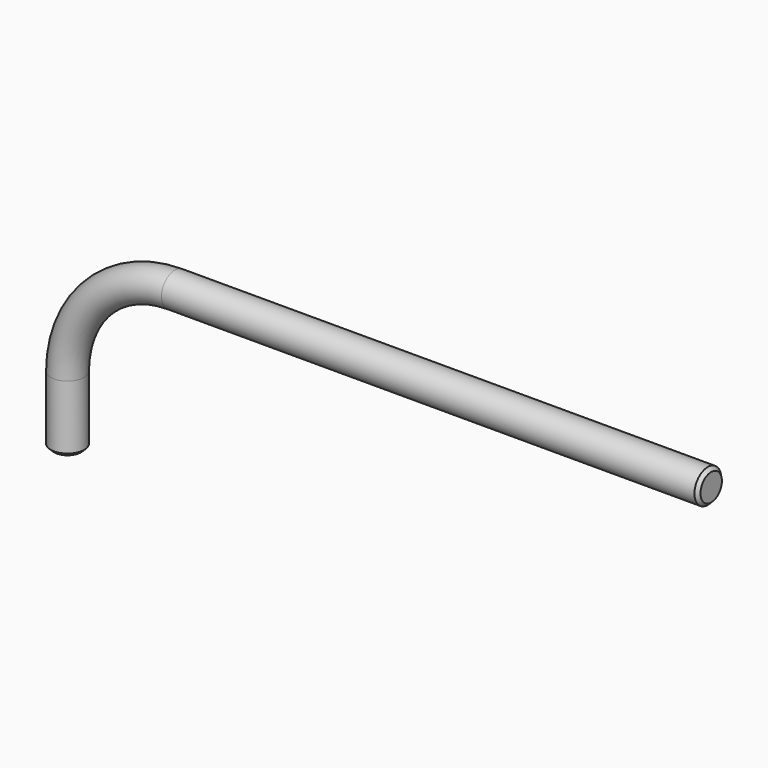
from build123d import *

# Parameters (mm, degrees)
F1_R     = 63.5
F3_SIZE2 = 12.7
F3_SIZE  = 12.7


with BuildPart() as f2:
    # F2: sweep along a path in F0
    with BuildLine(Plane.XZ) as f2_path:
        Line((0, 375.1847569466), (-2032, 375.1847569466))
        ThreePointArc((-2032, 375.1847569466), (-2319.3681958742, 256.1529528208), (-2438.4, -31.2152430534))
        Line((-2438.4, -31.2152430534), (-2438.4, -285.2152430534))
    # F1 (on Right) → F2 (sweep)
    with BuildSketch(Plane.YZ):
        with Locations((0, 375.1847569466)):
            Circle(F1_R)
    sweep(path=f2_path.line)

    # F3
    f3_edges = [f2.edges().sort_by_distance(p)[0] for p in [
        (0, -63.5, 375.184757),
        (-2438.4, -63.5, -285.215243),
    ]]
    chamfer(f3_edges, length=F3_SIZE, length2=F3_SIZE2)


solid = f2.part
